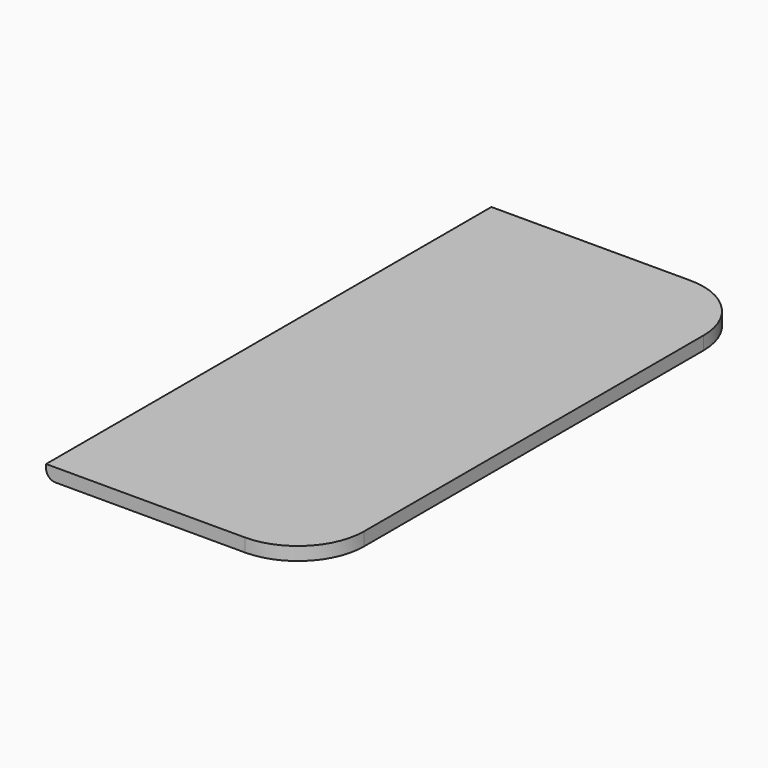
from build123d import *

# Parameters (mm, degrees)
SKETCH006_W  = 2
SKETCH006_H  = 4.2
PAD009_DEPTH = 0.1
FILLET010_R  = 0.07
FILLET011_R  = 0.5
FILLET012_R  = 0.5


with BuildPart() as part:
    # Sketch006 → Pad009 (new body)
    with BuildSketch(Plane.XY):
        with Locations((-4.33, 0.1)):
            Rectangle(SKETCH006_W, SKETCH006_H)
    extrude(amount=-PAD009_DEPTH)

    # Fillet010
    fillet010_edges = [part.edges().sort_by_distance(p)[0] for p in [
        (-5.33, 0.1, -0.1),
    ]]
    fillet(fillet010_edges, radius=FILLET010_R)

    # Fillet011
    fillet011_edges = [part.edges().sort_by_distance(p)[0] for p in [
        (-3.33, -2, -0.05),
    ]]
    fillet(fillet011_edges, radius=FILLET011_R)

    # Fillet012
    fillet012_edges = [part.edges().sort_by_distance(p)[0] for p in [
        (-3.33, 2.2, -0.05),
    ]]
    fillet(fillet012_edges, radius=FILLET012_R)


solid = part.part
